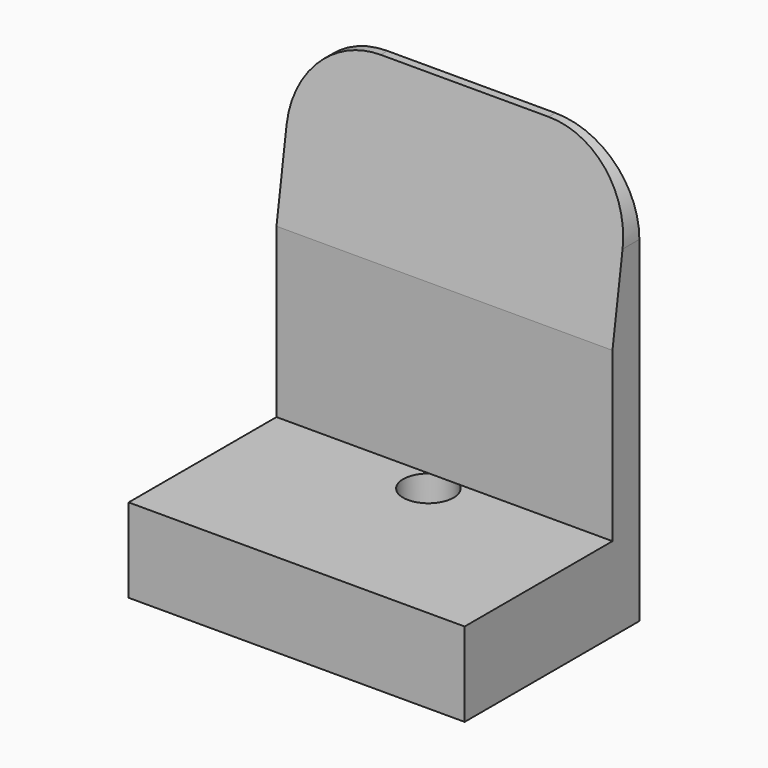
from build123d import *

# Parameters (mm, degrees)
F0_W     = 20
F0_H     = 13
F1_DEPTH = 5
F2_W     = 20
F2_H     = 2
F3_DEPTH = 20
F4_R     = 5
F7_DEPTH = 25
F5_R     = 1.5
F8_DEPTH = 25


with BuildPart() as f1:
    # F0 (on Top) → F1 (new body)
    with BuildSketch(Plane.XY):
        with Locations((10, 6.5)):
            Rectangle(F0_W, F0_H)
    extrude(amount=F1_DEPTH)

    # F2 (on face) → F3 (join)
    with BuildSketch(Plane.XY.offset(5)):
        with Locations((10, 12)):
            Rectangle(F2_W, F2_H)
    extrude(amount=F3_DEPTH)

    # F4
    f4_edges = [f1.edges().sort_by_distance(p)[0] for p in [
        (0, 12, 25),
        (20, 12, 25),
    ]]
    fillet(f4_edges, radius=F4_R)

    # F6 (on face) → F7 (cut)
    with BuildSketch(Plane(origin=(0, 0, 0), x_dir=(0, -1, 0), z_dir=(-1, 0, 0))):
        Polygon((-11, 25), (-12.5, 25), (-11, 15), align=None)
    extrude(amount=-F7_DEPTH, mode=Mode.SUBTRACT)

    # F5 (on face) → F8 (cut)
    with BuildSketch(Plane.XY.offset(5)):
        with Locations((10, 9.8)):
            Circle(F5_R)
    extrude(amount=-F8_DEPTH, mode=Mode.SUBTRACT)


solid = f1.part
